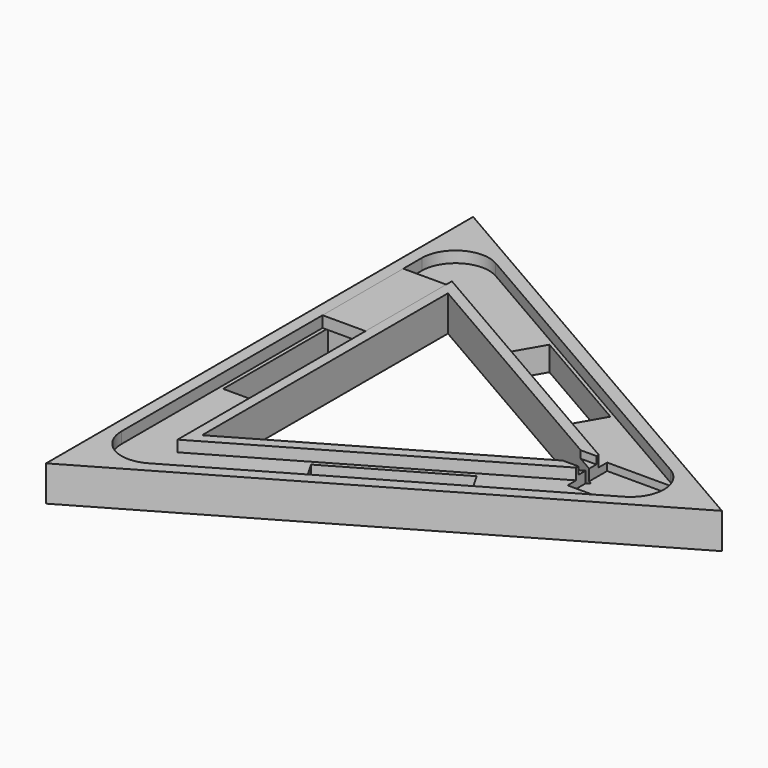
from build123d import *

# Parameters (mm, degrees)
BOX005_W               = 23
BOX005_H               = 54
BOX005_DEPTH           = 6
PRISM003_DEPTH         = 6
PRISM002_DEPTH         = 6
BOX004_W               = 10
BOX004_H               = 12
BOX004_DEPTH           = 4
BOX003_W               = 35
BOX003_H               = 26.5
BOX003_DEPTH           = 10
BOX002_W               = 70
BOX002_H               = 19
BOX002_DEPTH           = 19
BOX002_PLACEMENT_ANGLE = 30
BOX001_W               = 70
BOX001_H               = 19
BOX001_DEPTH           = 19
BOX001_PLACEMENT_ANGLE = 90
BOX_W                  = 70
BOX_H                  = 19
BOX_DEPTH              = 19
BOX_PLACEMENT_ANGLE    = 30
PRISM001_DEPTH         = 19
PRISM_DEPTH            = 19
FILLET_R               = 18


with BuildPart() as box005:
    # Box005 → Box005 (new body)
    with BuildSketch(Plane(origin=(-76, 34, 13), x_dir=(1, 0, 0), z_dir=(0, 0, 1))):
        with Locations((11.5, 27)):
            Rectangle(BOX005_W, BOX005_H)
    extrude(amount=BOX005_DEPTH)


with BuildPart() as prism003:
    # Prism003 → Prism003 (new body)
    with BuildSketch(Plane.XY.offset(13)):
        Polygon((106, 0), (-53, 91.798693), (-53, -91.798693), align=None)
    extrude(amount=PRISM003_DEPTH)


with BuildPart() as cut006:
    # Prism002 → Prism002 (new body)
    with BuildSketch(Plane.XY.offset(13)):
        Polygon((152, 0), (-76, 131.635861), (-76, -131.635861), align=None)
    extrude(amount=PRISM002_DEPTH)

    # Cut006: cut Prism003
    add(prism003.part, mode=Mode.SUBTRACT)


with BuildPart() as box004:
    # Box004 → Box004 (new body)
    with BuildSketch(Plane(origin=(84, -6, 15), x_dir=(1, 0, 0), z_dir=(0, 0, 1))):
        with Locations((5, 6)):
            Rectangle(BOX004_W, BOX004_H)
    extrude(amount=BOX004_DEPTH)


with BuildPart() as box003:
    # Box003 → Box003 (new body)
    with BuildSketch(Plane(origin=(93, -13.3, 9), x_dir=(1, 0, 0), z_dir=(0, 0, 1))):
        with Locations((17.5, 13.25)):
            Rectangle(BOX003_W, BOX003_H)
    extrude(amount=BOX003_DEPTH)


with BuildPart() as box002:
    # Box002 → Box002 (new body)
    with BuildSketch(Plane.XY):
        with Locations((35, 9.5)):
            Rectangle(BOX002_W, BOX002_H)
    extrude(amount=BOX002_DEPTH)


with BuildPart() as box002_1:
    # Box002 placement: moved
    add(box002.part.moved(Location((7, -82, 0))).rotate(Axis((7, -82, 0), (0, 0, 1)), BOX002_PLACEMENT_ANGLE))


with BuildPart() as box001:
    # Box001 → Box001 (new body)
    with BuildSketch(Plane.XY):
        with Locations((35, 9.5)):
            Rectangle(BOX001_W, BOX001_H)
    extrude(amount=BOX001_DEPTH)


with BuildPart() as box001_1:
    # Box001 placement: moved
    add(box001.part.moved(Location((-55, -35, 0))).rotate(Axis((-55, -35, 0), (0, 0, 1)), BOX001_PLACEMENT_ANGLE))


with BuildPart() as box:
    # Box → Box (new body)
    with BuildSketch(Plane.XY):
        with Locations((35, 9.5)):
            Rectangle(BOX_W, BOX_H)
    extrude(amount=BOX_DEPTH)


with BuildPart() as box_1:
    # Box placement: moved
    add(box.part.moved(Location((-2, 65, 0))).rotate(Axis((-2, 65, 0), (0, 0, -1)), BOX_PLACEMENT_ANGLE))


with BuildPart() as prism001:
    # Prism001 → Prism001 (new body)
    with BuildSketch(Plane.XY):
        Polygon((95, 0), (-47.5, 82.272413), (-47.5, -82.272413), align=None)
    extrude(amount=PRISM001_DEPTH)


with BuildPart() as fillet_body:
    # Prism → Prism (new body)
    with BuildSketch(Plane.XY):
        Polygon((165, 0), (-82.5, 142.894192), (-82.5, -142.894192), align=None)
    extrude(amount=PRISM_DEPTH)

    # Cut: cut Prism001
    add(prism001.part, mode=Mode.SUBTRACT)

    # Cut001: cut Box
    add(box_1.part, mode=Mode.SUBTRACT)

    # Cut002: cut Box001
    add(box001_1.part, mode=Mode.SUBTRACT)

    # Cut003: cut Box002
    add(box002_1.part, mode=Mode.SUBTRACT)

    # Cut004: cut Box003
    add(box003.part, mode=Mode.SUBTRACT)

    # Cut005: cut Box004
    add(box004.part, mode=Mode.SUBTRACT)

    # Cut007: cut Cut006
    add(cut006.part, mode=Mode.SUBTRACT)

    # Fillet
    fillet_edges = [fillet_body.edges().sort_by_distance(p)[0] for p in [
        (-76, 131.635861, 16),
        (-76, -131.635861, 16),
        (152, 0, 16),
    ]]
    fillet(fillet_edges, radius=FILLET_R)


solid = Compound([box005.part, fillet_body.part])
